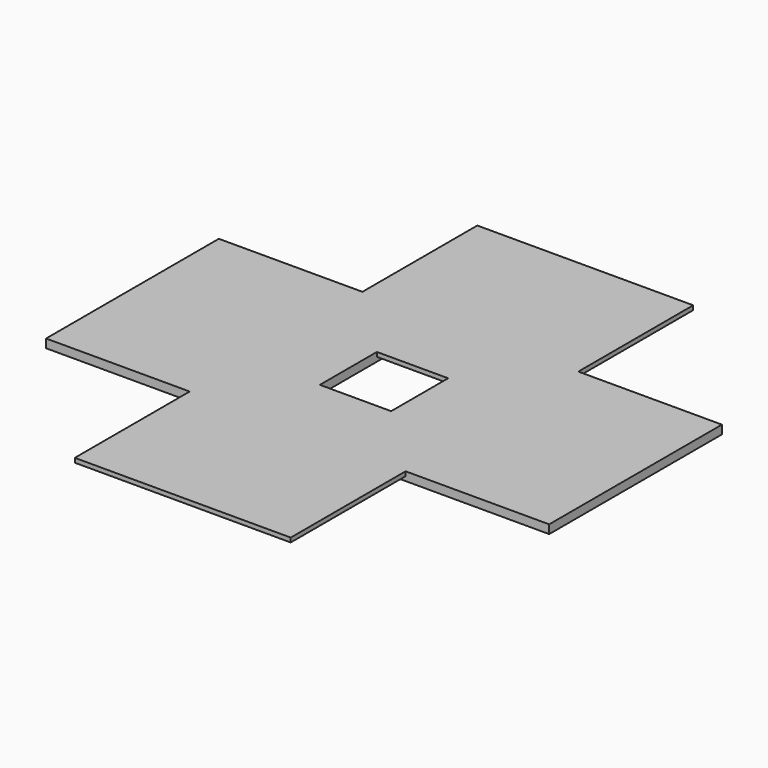
from build123d import *

# Parameters (mm, degrees)
BOX021_W     = 10
BOX021_H     = 10
BOX021_DEPTH = 0.4
BOX020_W     = 10
BOX020_H     = 10
BOX020_DEPTH = 0.2
BOX022_W     = 10
BOX022_H     = 10
BOX022_DEPTH = 0.4
BOX019_W     = 10
BOX019_H     = 10
BOX019_DEPTH = 0.2


with BuildPart() as cube021:
    # Box021 → Box021 (new body)
    with BuildSketch(Plane(origin=(1.65, -5, 0), x_dir=(1, 0, 0), z_dir=(0, 0, 1))):
        with Locations((5, 5)):
            Rectangle(BOX021_W, BOX021_H)
    extrude(amount=BOX021_DEPTH)


with BuildPart() as cube020:
    # Box020 → Box020 (new body)
    with BuildSketch(Plane(origin=(-5, -11.65, 0.2), x_dir=(1, 0, 0), z_dir=(0, 0, 1))):
        with Locations((5, 5)):
            Rectangle(BOX020_W, BOX020_H)
    extrude(amount=BOX020_DEPTH)


with BuildPart() as cube022:
    # Box022 → Box022 (new body)
    with BuildSketch(Plane(origin=(-11.65, -5, 0), x_dir=(1, 0, 0), z_dir=(0, 0, 1))):
        with Locations((5, 5)):
            Rectangle(BOX022_W, BOX022_H)
    extrude(amount=BOX022_DEPTH)


with BuildPart() as obj1:
    # Box019 → Box019 (new body)
    with BuildSketch(Plane(origin=(-5, 1.65, 0.2), x_dir=(1, 0, 0), z_dir=(0, 0, 1))):
        with Locations((5, 5)):
            Rectangle(BOX019_W, BOX019_H)
    extrude(amount=BOX019_DEPTH)

    # Fusion021: union Cube021, Cube020, Cube022
    add(cube021.part)
    add(cube020.part)
    add(cube022.part)


with BuildPart() as obj1_1:
    # Fusion021 placement: moved
    add(obj1.part.moved(Location((0, 0, 2))))


solid = obj1_1.part
